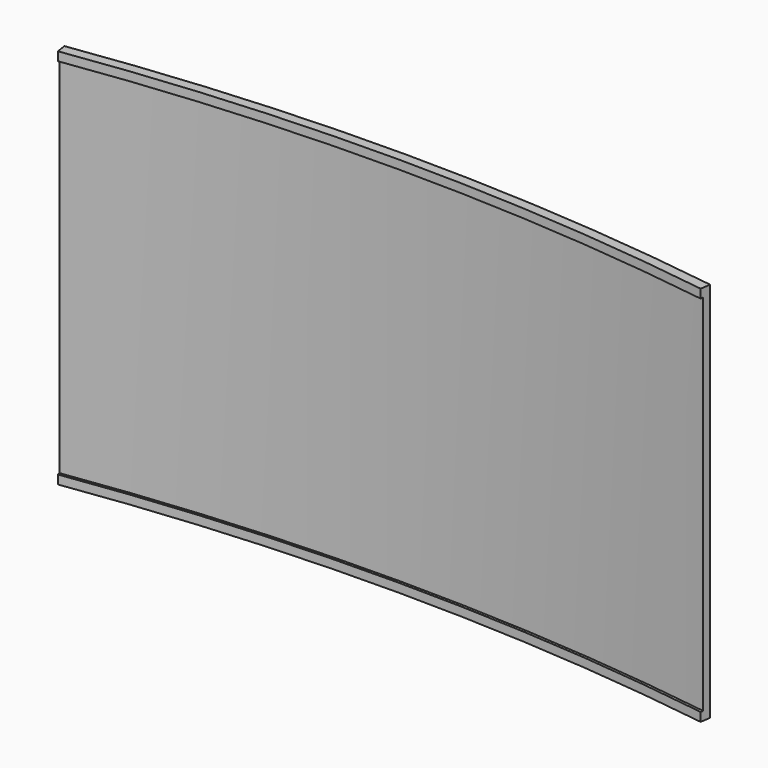
from build123d import *

# Parameters (mm, degrees)
F2_ANGLE = 16.615776


with BuildPart() as f2:
    # F0 (on Right) → F2 (revolve, symmetric)
    with BuildSketch(Plane.YZ) as f2_sk:
        Polygon((-5.08, 332.904383), (0, 332.904383), (0, 0), (0, -352.895617), (-5.08, -352.895617), (-5.08, -369.405617), (13.97, -369.405617), (13.97, 349.414383), (-5.08, 349.414383), align=None)
    revolve(axis=Axis((0, -4197.096, 1015.695978), (0, 0, -1)), revolution_arc=F2_ANGLE / 2)
    revolve(f2_sk.sketch, axis=Axis((0, -4197.096, 1015.695978), (0, 0, 1)), revolution_arc=F2_ANGLE / 2)


solid = f2.part
